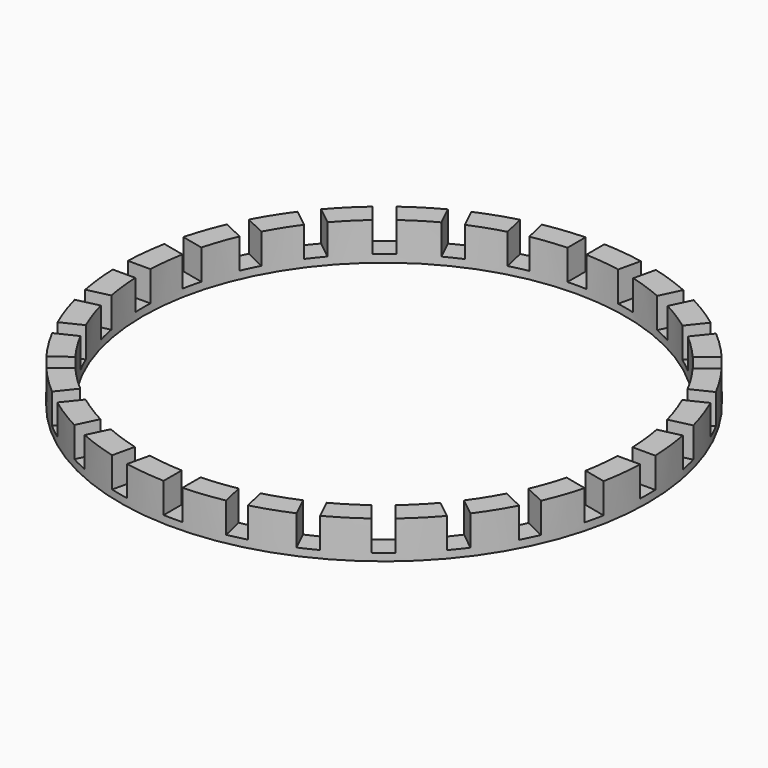
from build123d import *

# Parameters (mm, degrees)
F0_R     = 44.45
F0_R_2   = 40.64
F1_DEPTH = 6.35
F2_W     = 6.626951
F2_H     = 3.175
F2_W_2   = 3.175
F2_H_2   = 6.626951
F3_DEPTH = 5.08


with BuildPart() as f1:
    # F0 (on Top) → F1 (new body)
    with BuildSketch(Plane.XY):
        Circle(F0_R)
        Circle(F0_R_2, mode=Mode.SUBTRACT)
    extrude(amount=F1_DEPTH)

    # F2 (on face) → F3 (cut)
    with BuildSketch(Plane.XY.offset(6.35)):
        with Locations((-42.241248, 0)):
            Rectangle(F2_W, F2_H)
        Polygon((-44.059319, 11.684578), (-44.765823, 8.589181), (-38.305023, 7.114546), (-37.598519, 10.209942), align=None)
        Polygon((-40.354597, 21.195742), (-41.732178, 18.335165), (-35.761501, 15.459839), (-34.38392, 18.320415), align=None)
        Polygon((-34.626327, 29.644063), (-36.605907, 27.161748), (-31.424748, 23.029911), (-29.445167, 25.512226), align=None)
        Polygon((-27.161748, 36.605907), (-29.644063, 34.626327), (-25.512226, 29.445167), (-23.029911, 31.424748), align=None)
        Polygon((-18.335165, 41.732178), (-21.195742, 40.354597), (-18.320415, 34.38392), (-15.459839, 35.761501), align=None)
        Polygon((-8.589181, 44.765823), (-11.684578, 44.059319), (-10.209942, 37.598519), (-7.114546, 38.305023), align=None)
        with Locations((0, 42.241248)):
            Rectangle(F2_W_2, F2_H_2)
        Polygon((11.684578, 44.059319), (8.589181, 44.765823), (7.114546, 38.305023), (10.209942, 37.598519), align=None)
        Polygon((21.195742, 40.354597), (18.335165, 41.732178), (15.459839, 35.761501), (18.320415, 34.38392), align=None)
        Polygon((29.644063, 34.626327), (27.161748, 36.605907), (23.029911, 31.424748), (25.512226, 29.445167), align=None)
        Polygon((36.605907, 27.161748), (34.626327, 29.644063), (29.445167, 25.512226), (31.424748, 23.029911), align=None)
        Polygon((41.732178, 18.335165), (40.354597, 21.195742), (34.38392, 18.320415), (35.761501, 15.459839), align=None)
        Polygon((44.765823, 8.589181), (44.059319, 11.684578), (37.598519, 10.209942), (38.305023, 7.114546), align=None)
        with Locations((42.241248, 0)):
            Rectangle(F2_W, F2_H)
        Polygon((-44.059319, -11.684578), (-37.598519, -10.209942), (-38.305023, -7.114546), (-44.765823, -8.589181), align=None)
        with Locations((0, -42.241248)):
            Rectangle(F2_W_2, F2_H_2)
        Polygon((21.195742, -40.354597), (18.320415, -34.38392), (15.459839, -35.761501), (18.335165, -41.732178), align=None)
        Polygon((-18.335165, -41.732178), (-15.459839, -35.761501), (-18.320415, -34.38392), (-21.195742, -40.354597), align=None)
        Polygon((-36.605907, -27.161748), (-34.626327, -29.644063), (-29.445167, -25.512226), (-31.424748, -23.029911), align=None)
        Polygon((40.354597, -21.195742), (41.732178, -18.335165), (35.761501, -15.459839), (34.38392, -18.320415), align=None)
        Polygon((27.161748, -36.605907), (29.644063, -34.626327), (25.512226, -29.445167), (23.029911, -31.424748), align=None)
        Polygon((34.626327, -29.644063), (36.605907, -27.161748), (31.424748, -23.029911), (29.445167, -25.512226), align=None)
        Polygon((-27.161748, -36.605907), (-23.029911, -31.424748), (-25.512226, -29.445167), (-29.644063, -34.626327), align=None)
        Polygon((44.765823, -8.589181), (38.305023, -7.114546), (37.598519, -10.209942), (44.059319, -11.684578), align=None)
        Polygon((-8.589181, -44.765823), (-7.114546, -38.305023), (-10.209942, -37.598519), (-11.684578, -44.059319), align=None)
        Polygon((-40.354597, -21.195742), (-34.38392, -18.320415), (-35.761501, -15.459839), (-41.732178, -18.335165), align=None)
        Polygon((8.589181, -44.765823), (11.684578, -44.059319), (10.209942, -37.598519), (7.114546, -38.305023), align=None)
    extrude(amount=-F3_DEPTH, mode=Mode.SUBTRACT)


solid = f1.part
